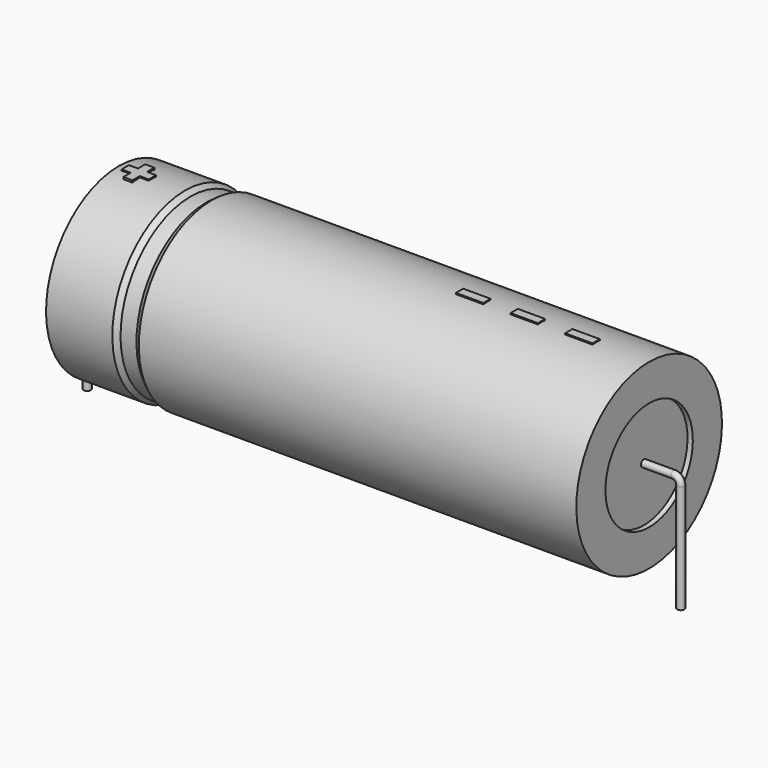
from build123d import *

# Parameters (mm, degrees)
SKETCH_R    = 0.45
SKETCH004_W = 3.45
SKETCH004_H = 1.15
PAD_DEPTH   = 11.615


with BuildPart() as sweep_body:
    # Sweep: sweep along a path in Sketch001
    with BuildLine(Plane.XZ) as sweep_path:
        Line((0, -3), (0, 10.7))
        ThreePointArc((0, 10.7), (0.263601, 11.336393), (0.899993, 11.6))
        Line((0.899993, 11.6), (74.1, 11.6))
        ThreePointArc((74.1, 11.6), (74.736396, 11.336396), (75, 10.7))
        Line((75, 10.7), (75, -3))
    # Sketch → Sweep (sweep)
    with BuildSketch(Plane.XY.offset(-2)):
        Circle(SKETCH_R)
    sweep(path=sweep_path.line)


with BuildPart() as revolution:
    # Sketch002 → Revolution (revolve)
    with BuildSketch(Plane.XZ):
        Polygon((4, 23.1), (4, 18.5), (71, 18.5), (71, 23.1), (15.725, 23.1), (15.055, 22.64), (13.045, 22.64), (12.375, 23.1), align=None)
    revolve(axis=Axis((6.97588, 0, 11.6), (1, 0, 0)))


with BuildPart() as revolution001:
    # Sketch003 → Revolution001 (revolve)
    with BuildSketch(Plane.XZ):
        Polygon((4.67, 22.64), (8.02, 22.64), (8.02, 12.75), (66.98, 12.75), (66.98, 22.64), (70.33, 22.64), (70.33, 11.6), (4.67, 11.6), align=None)
    revolve(axis=Axis((6.97588, 0, 11.6), (1, 0, 0)))


with BuildPart() as pad:
    # Sketch004 → Pad (new body)
    with BuildSketch(Plane.XY.offset(11.6)):
        with Locations((62.575, 0)):
            Rectangle(SKETCH004_W, SKETCH004_H)
        with Locations((55.675, 0)):
            Rectangle(SKETCH004_W, SKETCH004_H)
        with Locations((48.775, 0)):
            Rectangle(SKETCH004_W, SKETCH004_H)
        Polygon((5.954, 0.575), (4.804, 0.575), (4.804, -0.575), (5.954, -0.575), (5.954, -1.725), (7.104, -1.725), (7.104, -0.575), (8.254, -0.575), (8.254, 0.575), (7.104, 0.575), (7.104, 1.725), (5.954, 1.725), align=None)
    extrude(amount=PAD_DEPTH)


solid = Compound([sweep_body.part, revolution.part, revolution001.part, pad.part])
